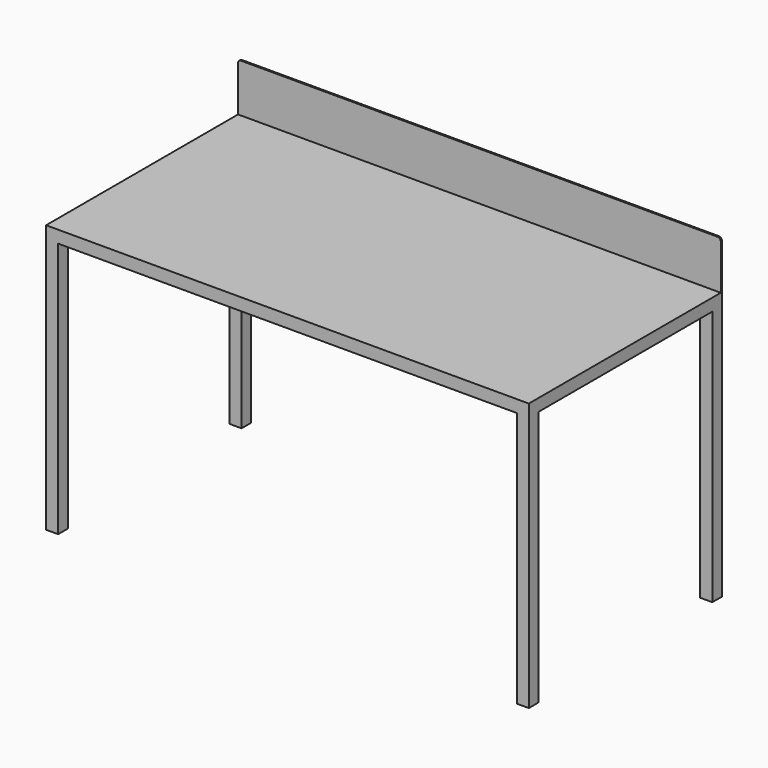
from build123d import *

# Parameters (mm, degrees)
F0_W     = 1000
F0_H     = 500
F1_DEPTH = 25.4
F2_W     = 25
F2_H     = 25
F3_DEPTH = 530
F5_DEPTH = 3


with BuildPart() as f1:
    # F0 (on Top) → F1 (new body)
    with BuildSketch(Plane.XY):
        Rectangle(F0_W, F0_H)
    extrude(amount=F1_DEPTH)

    # F2 (on face) → F3 (join)
    with BuildSketch(Plane(origin=(0, 0, 0), x_dir=(1, 0, 0), z_dir=(0, 0, -1))):
        with Locations((-487.5, 237.5)):
            Rectangle(F2_W, F2_H)
        with Locations((-487.5, -237.5)):
            Rectangle(F2_W, F2_H)
        with Locations((487.5, 237.5)):
            Rectangle(F2_W, F2_H)
        with Locations((487.5, -237.5)):
            Rectangle(F2_W, F2_H)
    extrude(amount=F3_DEPTH)

    # F4 (on face) → F5 (join)
    with BuildSketch(Plane(origin=(0, 250, 0), x_dir=(-1, 0, 0), z_dir=(0, 1, 0))):
        with BuildLine():
            Line((-500, 119.05), (-500, 25.4))
            Line((-500, 25.4), (500, 25.4))
            Line((500, 25.4), (500, 119.05))
            ThreePointArc((500, 119.05), (498.140128, 123.540128), (493.65, 125.4))
            Line((493.65, 125.4), (-493.65, 125.4))
            ThreePointArc((-493.65, 125.4), (-498.140128, 123.540128), (-500, 119.05))
        make_face()
    extrude(amount=-F5_DEPTH)


solid = f1.part
